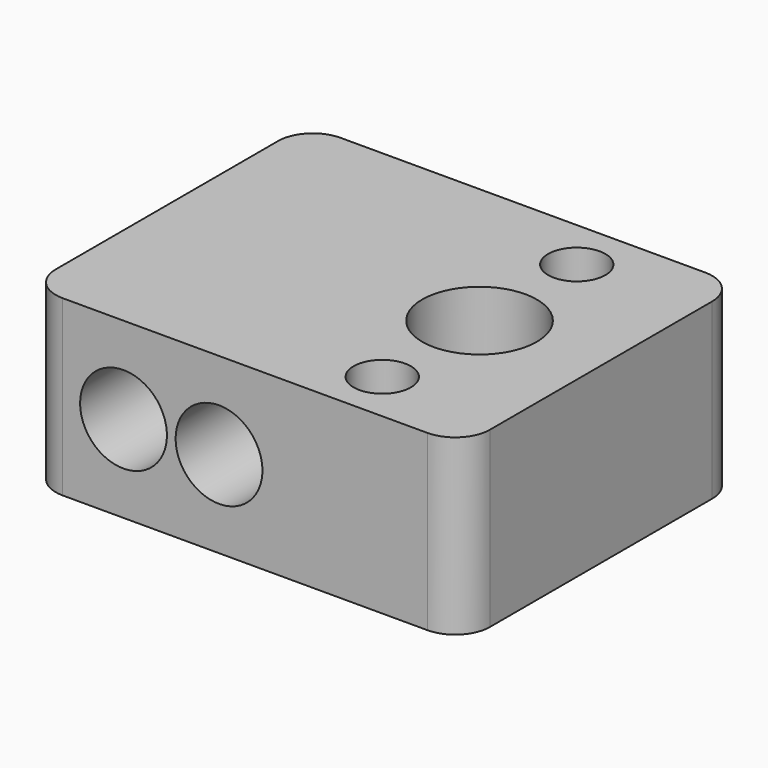
from build123d import *

# Parameters (mm, degrees)
F0_W     = 25
F0_H     = 20
F1_DEPTH = 10
F3_D     = 6.6
F3_DEPTH = 10
F3_TIP   = 1.9828400428
F5_D     = 5
F5_DEPTH = 30
F5_TIP   = 1.5021515476
F6_R     = 2
F8_D     = 3.3
F8_DEPTH = 6
F8_TIP   = 0.9914200214


with BuildPart() as f1:
    # F0 (on Top) → F1 (new body)
    with BuildSketch(Plane.XY):
        Rectangle(F0_W, F0_H)
    extrude(amount=F1_DEPTH)

    # F3
    with Locations(Plane.XY.offset(10)):
        with Locations((5.5, 0)):
            Hole(F3_D / 2, depth=F3_DEPTH)
            with Locations((0, 0, -(F3_DEPTH + F3_TIP / 2))):  # 118° drill point
                Cone(0, F3_D / 2, F3_TIP, mode=Mode.SUBTRACT)

    # F5
    with Locations(Plane.XZ.offset(10)):
        with Locations((-7, 5), (-1.5, 5)):
            Hole(F5_D / 2, depth=F5_DEPTH)
            with Locations((0, 0, -(F5_DEPTH + F5_TIP / 2))):  # 118° drill point
                Cone(0, F5_D / 2, F5_TIP, mode=Mode.SUBTRACT)

    # F6
    f6_edges = [f1.edges().sort_by_distance(p)[0] for p in [
        (-12.5, -10, 5),
        (-12.5, 10, 5),
        (12.5, -10, 5),
        (12.5, 10, 5),
    ]]
    fillet(f6_edges, radius=F6_R)

    # F8
    with Locations(Plane.XY.offset(10)):
        with Locations((5.5, 7), (5.5, -7)):
            Hole(F8_D / 2, depth=F8_DEPTH)
            with Locations((0, 0, -(F8_DEPTH + F8_TIP / 2))):  # 118° drill point
                Cone(0, F8_D / 2, F8_TIP, mode=Mode.SUBTRACT)


solid = f1.part
